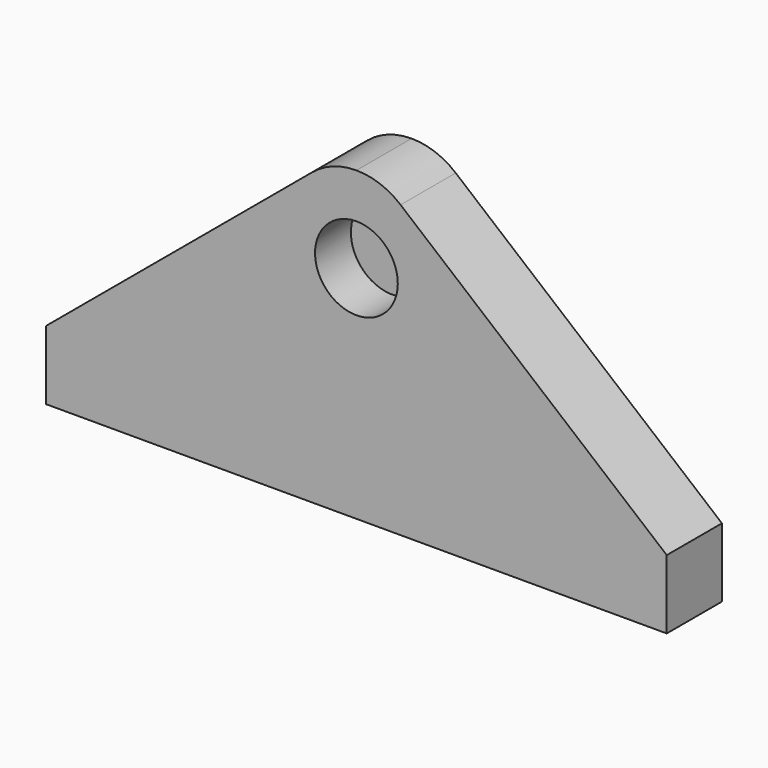
from build123d import *

# Parameters (mm, degrees)
F1_DEPTH = 20
F3_DEPTH = 13


with BuildPart() as f1:
    # F0 (on Front) → F1 (new body)
    with BuildSketch(Plane.XZ):
        with BuildLine():
            Line((-98.775325, -9.191423), (-98.775325, -29.191423))
            Line((-98.775325, -29.191423), (81.224675, -29.191423))
            Line((81.224675, -29.191423), (81.224675, -9.191423))
            Line((81.224675, -9.191423), (4.028363, 55.138837))
            ThreePointArc((4.028363, 55.138837), (-1.96682, 58.579843), (-8.775325, 59.774412))
            ThreePointArc((-8.775325, 59.774412), (-15.583831, 58.579843), (-21.579013, 55.138837))
            Line((-21.579013, 55.138837), (-98.775325, -9.191423))
        make_face()
    extrude(amount=F1_DEPTH)

    # F2 (on face) → F3 (cut)
    with BuildSketch(Plane.XZ.offset(20)):
        with BuildLine():
            ThreePointArc((3.224675, 34.774412), (-0.290044, 43.259693), (-8.775325, 46.774412))
            ThreePointArc((-8.775325, 46.774412), (-17.260607, 26.28913), (3.224675, 34.774412))
        make_face()
    extrude(amount=-F3_DEPTH, mode=Mode.SUBTRACT)


solid = f1.part
